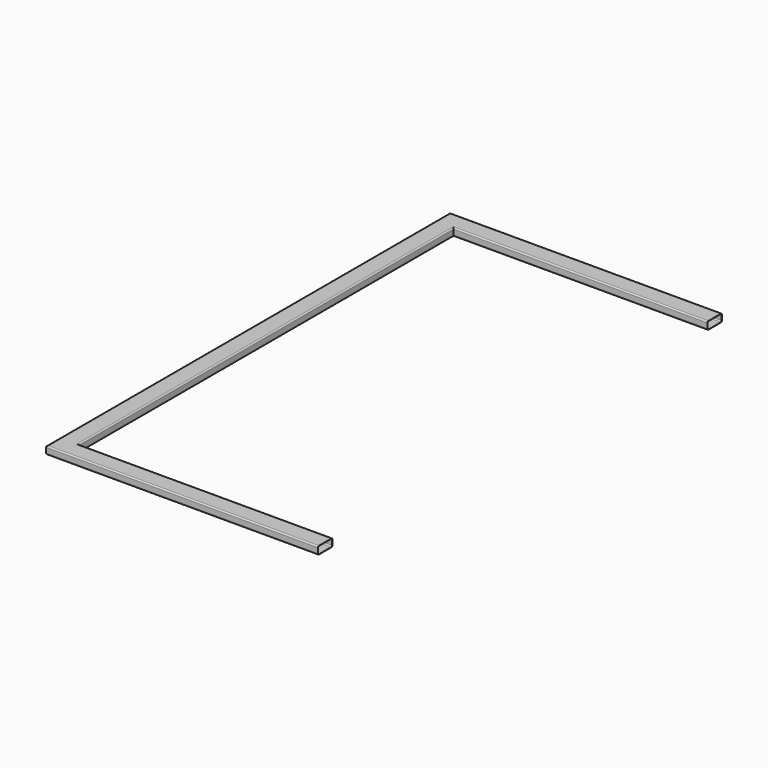
from build123d import *


with BuildPart() as f2:
    # F2: sweep along a path in F1
    with BuildLine(Plane.XY) as f2_path:
        Line((0, 0), (-1016, 0))
        Line((-1016, 0), (-1016, 1882))
        Line((-1016, 1882), (0, 1882))
    # F0 (on Right) → F2 (sweep)
    with BuildSketch(Plane.YZ):
        with BuildLine():
            ThreePointArc((35, 10), (33.5355339059, 13.5355339059), (30, 15))
            Line((30, 15), (-30, 15))
            ThreePointArc((-30, 15), (-33.5355339059, 13.5355339059), (-35, 10))
            Line((-35, 10), (-35, -10))
            ThreePointArc((-35, -10), (-33.5355339059, -13.5355339059), (-30, -15))
            Line((-30, -15), (30, -15))
            ThreePointArc((30, -15), (33.5355339059, -13.5355339059), (35, -10))
            Line((35, -10), (35, 10))
        make_face()
        with BuildLine():
            ThreePointArc((30, 14), (32.8284271247, 12.8284271247), (34, 10))
            Line((34, 10), (34, -10))
            ThreePointArc((34, -10), (32.8284271247, -12.8284271247), (30, -14))
            Line((30, -14), (-30, -14))
            ThreePointArc((-30, -14), (-32.8284271247, -12.8284271247), (-34, -10))
            Line((-34, -10), (-34, 10))
            ThreePointArc((-34, 10), (-32.8284271247, 12.8284271247), (-30, 14))
            Line((-30, 14), (30, 14))
        make_face(mode=Mode.SUBTRACT)
    sweep(path=f2_path.line, transition=Transition.RIGHT)


solid = f2.part
